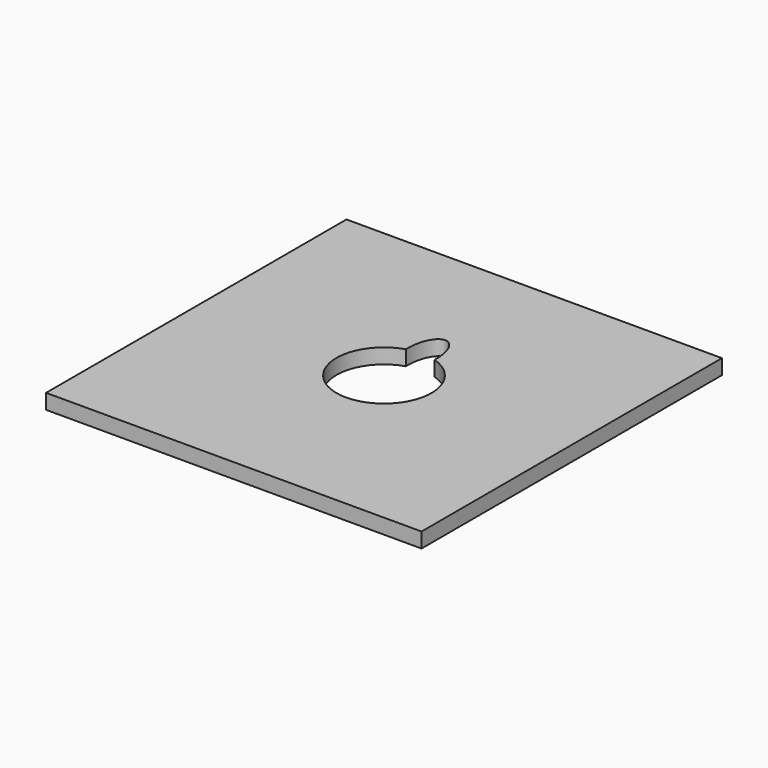
from build123d import *

# Parameters (mm, degrees)
F0_W     = 150
F0_H     = 150
F1_DEPTH = 6


with BuildPart() as f1:
    # F0 (on Top) → F1 (new body)
    with BuildSketch(Plane.XY):
        Rectangle(F0_W, F0_H)
        with BuildLine():
            ThreePointArc((5.7307365463, 18.1151499756), (0, -19), (-5.7307365463, 18.1151499756))
            add(Edge.make_bspline(
                [(5.7307365463, 18.1151499756), (6.2063982555, 30.545456659), (0, 30.545456659), (-6.2063982555, 30.545456659), (-5.7307365463, 18.1151499756)],
                knots=[4.6356732139, 4.6356732139, 4.6356732139, 6.2831853072, 6.2831853072, 7.9306974004, 7.9306974004, 7.9306974004], degree=2, weights=[1, 0.6794701836, 1, 0.6794701836, 1]))
        make_face(mode=Mode.SUBTRACT)
    extrude(amount=F1_DEPTH)


solid = f1.part
